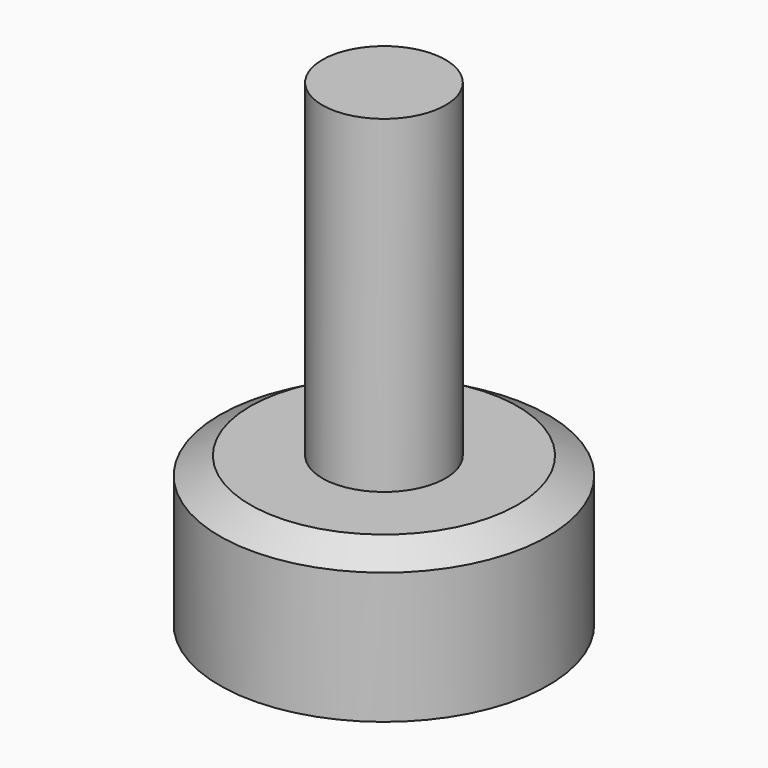
from build123d import *

# Parameters (mm, degrees)
F0_W   = 3.75
F0_H   = 20
F0_H_2 = 3
F0_H_3 = 1.0746234533


with BuildPart() as f1:
    # F0 (on Front) → F1 (revolve)
    with BuildSketch(Plane.XZ):
        with Locations((-22.4263077103, 19.0746234533)):
            Rectangle(F0_W, F0_H)
        Polygon((-24.3013077103, 8), (-30.5513077103, 8), (-30.5513077103, 0), (-24.3013077103, 0), (-24.3013077103, 5), align=None)
        Polygon((-28.6900052902, 9.0746234533), (-30.5513077103, 8), (-24.3013077103, 8), (-24.3013077103, 9.0746234533), align=None)
        with Locations((-22.4263077103, 6.5)):
            Rectangle(F0_W, F0_H_2)
        with Locations((-22.4263077103, 8.5373117267)):
            Rectangle(F0_W, F0_H_3)
    revolve(axis=Axis((-20.5513077103, 0, 19.0746234533), (0, 0, 1)))


solid = f1.part
